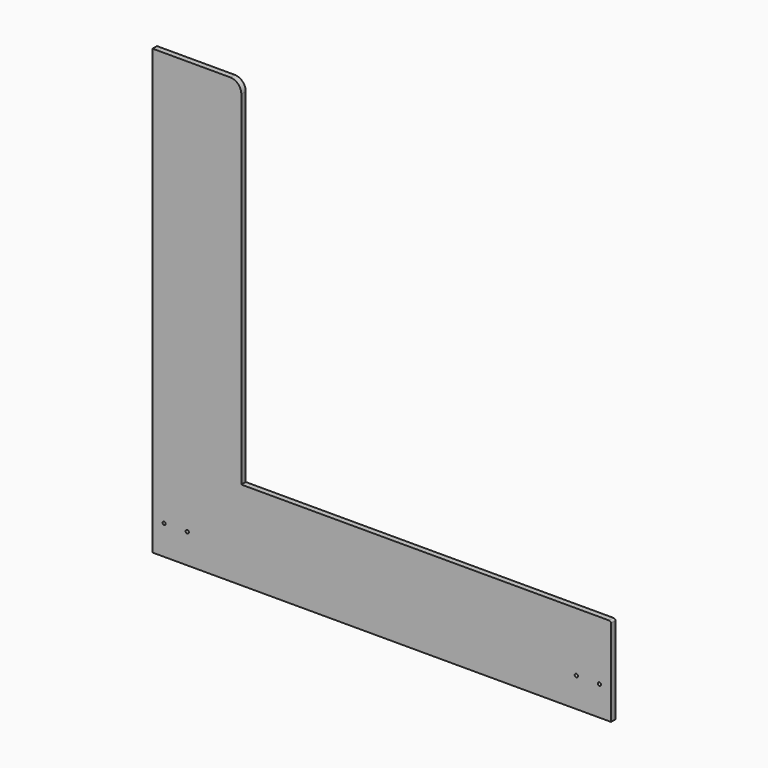
from build123d import *

# Parameters (mm, degrees)
F1_DEPTH = 19.05
F2_R     = 6.35
F4_D     = 11.1252


with BuildPart() as f1:
    # F0 (on Front) → F1 (new body)
    with BuildSketch(Plane.XZ):
        with BuildLine():
            Line((1371.6, 304.8), (304.8, 304.8))
            Line((304.8, 304.8), (304.8, 1485.9))
            ThreePointArc((304.8, 1485.9), (293.640768, 1512.840768), (266.7, 1524))
            Line((266.7, 1524), (0, 1524))
            Line((0, 1524), (0, 0))
            Line((0, 0), (1574.8, 0))
            Line((1574.8, 0), (1574.8, 304.8))
            Line((1574.8, 304.8), (1371.6, 304.8))
        make_face()
    extrude(amount=F1_DEPTH)

    # F2
    f2_edges = [f1.edges().sort_by_distance(p)[0] for p in [
        (1574.8, -9.525, 304.8),
    ]]
    fillet(f2_edges, radius=F2_R)

    # F4 (through all)
    with Locations(Plane.XZ.offset(19.05)):
        with Locations((1535.1252, 101.6), (1455.7502, 101.6), (119.0498, 101.6), (39.6748, 101.6)):
            Hole(F4_D / 2)


solid = f1.part
